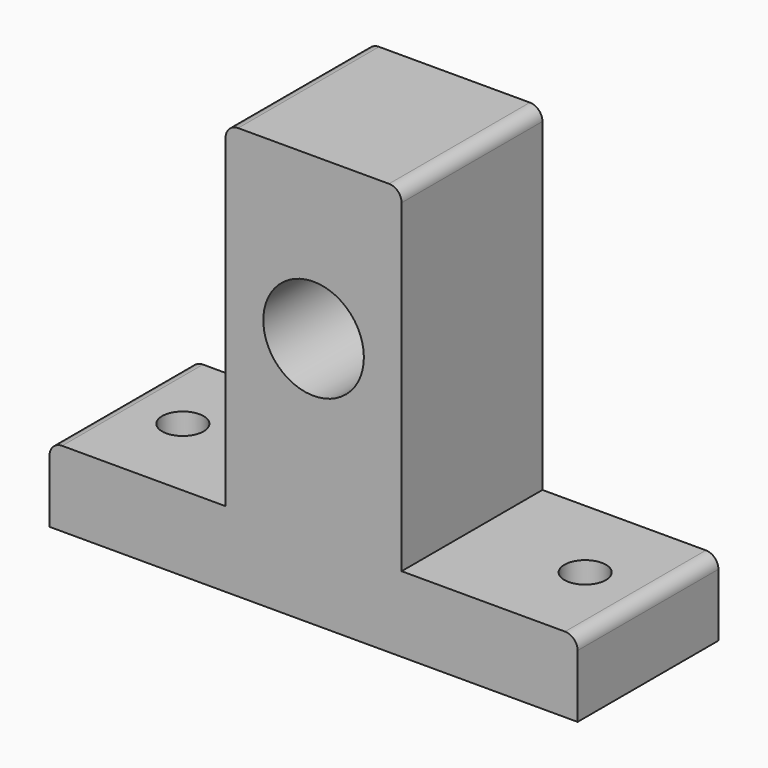
from build123d import *

# Parameters (mm, degrees)
F0_R     = 4
F1_DEPTH = 14
F3_D     = 3.3


with BuildPart() as f1:
    # F0 (on Front) → F1 (new body)
    with BuildSketch(Plane.XZ):
        with BuildLine():
            Line((20, -14), (7, -14))
            Line((7, -14), (7, 11.8))
            ThreePointArc((7, 11.8), (6.707107, 12.507107), (6, 12.8))
            Line((6, 12.8), (-6, 12.8))
            ThreePointArc((-6, 12.8), (-6.707107, 12.507107), (-7, 11.8))
            Line((-7, 11.8), (-7, -14))
            Line((-7, -14), (-20, -14))
            ThreePointArc((-20, -14), (-20.707107, -14.292893), (-21, -15))
            Line((-21, -15), (-21, -20))
            Line((-21, -20), (21, -20))
            Line((21, -20), (21, -15))
            ThreePointArc((21, -15), (20.707107, -14.292893), (20, -14))
        make_face()
        Circle(F0_R, mode=Mode.SUBTRACT)
    extrude(amount=F1_DEPTH)

    # F3 (through all)
    with Locations(Plane.XY):
        with Locations((-16, -7), (16, -7)):
            Hole(F3_D / 2)


solid = f1.part
